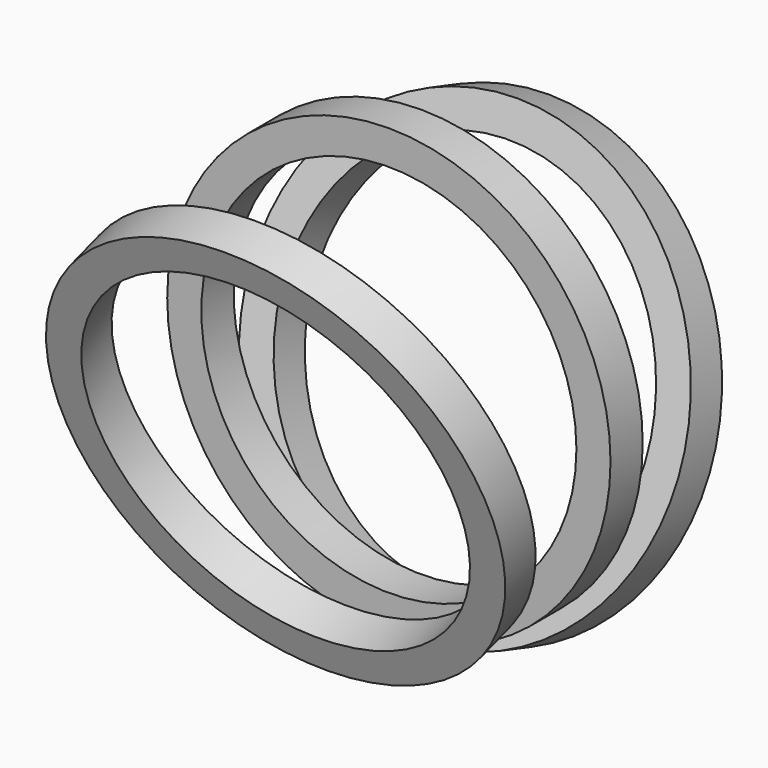
from build123d import *

# Parameters (mm, degrees)
F7_R      = 8.255
F7_R_2    = 6.985
F8_DEPTH  = 1.5
F5_R      = 8.255
F5_R_2    = 6.985
F9_DEPTH  = 0.75
F6_R      = 8.255
F6_R_2    = 6.985
F10_DEPTH = 1.5


with BuildPart() as f8:
    # F7 (on face) → F8 (new body)
    with BuildSketch(Plane(origin=(0.054607, -4.702362, -1.470471), x_dir=(0.999939, 0.010578, 0.003308), z_dir=(0.011083, -0.954365, -0.298438))):
        with Locations((-1.076741, 0.100641)):
            Circle(F7_R)
        with Locations((-1.076741, 0.100641)):
            Circle(F7_R_2, mode=Mode.SUBTRACT)
    extrude(amount=-F8_DEPTH)


with BuildPart() as f9:
    # F5 (on Front) → F9 (new body, symmetric)
    with BuildSketch(Plane.XZ):
        Circle(F5_R)
        Circle(F5_R_2, mode=Mode.SUBTRACT)
    extrude(amount=F9_DEPTH, both=True)


with BuildPart() as f10:
    # F6 (on face) → F10 (new body)
    with BuildSketch(Plane(origin=(0.054607, 4.702362, -1.470471), x_dir=(0.999939, -0.010578, 0.003308), z_dir=(-0.011083, -0.954365, 0.298438))):
        with Locations((-0.346648, -0.337411)):
            Circle(F6_R)
        with Locations((-0.346648, -0.337411)):
            Circle(F6_R_2, mode=Mode.SUBTRACT)
    extrude(amount=F10_DEPTH)


solid = Compound([f8.part, f9.part, f10.part])
